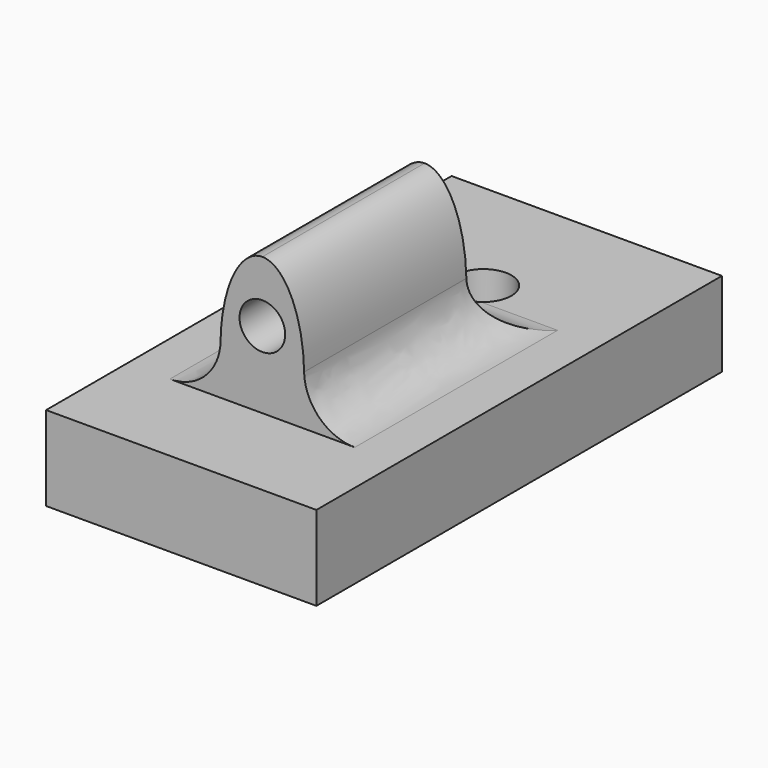
from build123d import *

# Parameters (mm, degrees)
F0_W           = 16
F0_H           = 30
F1_DEPTH       = 5
F4_DEPTH       = 12
F6_D           = 2.7
F7_D           = 3.3
F7_CBORE_D     = 6.5
F7_CBORE_DEPTH = 2
F8_R           = 3


with BuildPart() as f1:
    # F0 (on Top) → F1 (new body)
    with BuildSketch(Plane.XY):
        Rectangle(F0_W, F0_H)
    extrude(amount=F1_DEPTH)

    # F3 (on offset) → F4 (join)
    with BuildSketch(Plane.XZ.offset(9)):
        with BuildLine():
            add(Edge.make_bspline(
                [(0, 13.1453461945), (-4.2880371505, 13.1453461945), (-2.1440185752, 5.0531195011), (0, -3.0391071923), (2.1440185752, 5.0531195011), (4.2880371505, 13.1453461945), (0, 13.1453461945)],
                knots=[0, 0, 0, 2.0943951024, 2.0943951024, 4.1887902048, 4.1887902048, 6.2831853072, 6.2831853072, 6.2831853072], degree=2, weights=[1, 0.5, 1, 0.5, 1, 0.5, 1]))
        make_face()
    extrude(amount=-F4_DEPTH)

    # F6 (through all)
    with Locations(Plane.XZ.offset(9)):
        with Locations((0, 9.5370300114)):
            Hole(F6_D / 2)

    # F7 (through all)
    with Locations(Plane(origin=(0, 0, 0), x_dir=(1, 0, 0), z_dir=(0, 0, -1))):
        with Locations((0, -7.3607559316)):
            CounterBoreHole(F7_D / 2, F7_CBORE_D / 2, F7_CBORE_DEPTH)

    # F8
    f8_edges = [f1.edges().sort_by_distance(p)[0] for p in [
        (-2.129759, -3, 5),
        (2.129759, -3, 5),
        (0, 3, 5),
    ]]
    fillet(f8_edges, radius=F8_R)


solid = f1.part
